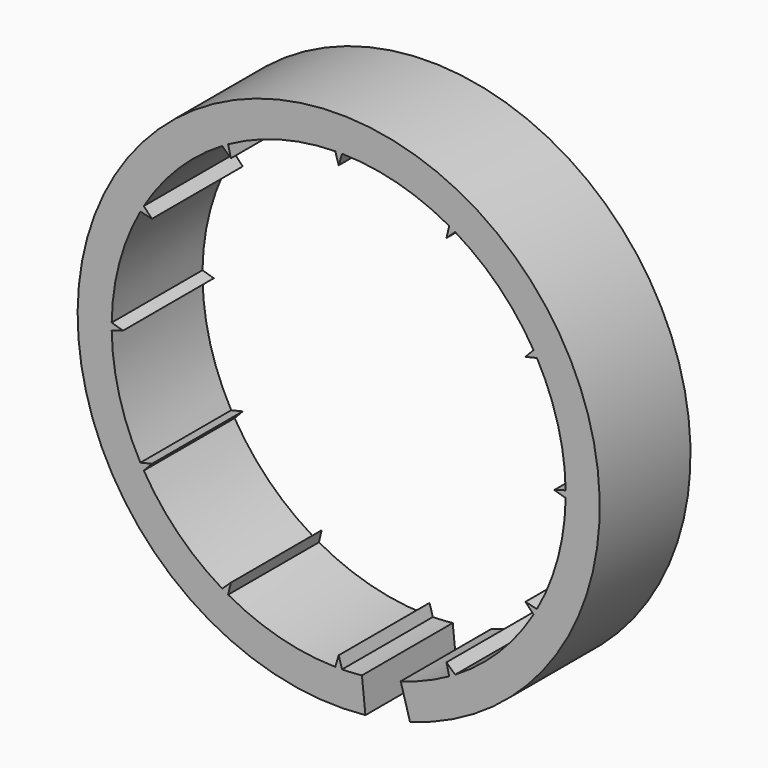
from build123d import *

# Parameters (mm, degrees)
F0_R     = 11.5
F1_DEPTH = 5
F3_DEPTH = 25


with BuildPart() as f1:
    # F0 (on Front) → F1 (new body)
    with BuildSketch(Plane.XZ):
        Circle(F0_R)
        with BuildLine():
            ThreePointArc((-4.869534, 8.73428), (-2.58819, 9.659258), (-0.15, 9.998875))
            Line((-0.15, 9.998875), (0, 9.5))
            Line((0, 9.5), (0.15, 9.998875))
            ThreePointArc((0.15, 9.998875), (2.58819, 9.659258), (4.869534, 8.73428))
            Line((4.869534, 8.73428), (4.75, 8.227241))
            Line((4.75, 8.227241), (5.129341, 8.58428))
            ThreePointArc((5.129341, 8.58428), (7.071068, 7.071068), (8.58428, 5.129341))
            Line((8.58428, 5.129341), (8.227241, 4.75))
            Line((8.227241, 4.75), (8.73428, 4.869534))
            ThreePointArc((8.73428, 4.869534), (9.659258, 2.58819), (9.998875, 0.15))
            Line((9.998875, 0.15), (9.5, 0))
            Line((9.5, 0), (9.998875, -0.15))
            ThreePointArc((9.998875, -0.15), (9.659258, -2.58819), (8.73428, -4.869534))
            Line((8.73428, -4.869534), (8.227241, -4.75))
            Line((8.227241, -4.75), (8.58428, -5.129341))
            ThreePointArc((8.58428, -5.129341), (7.071068, -7.071068), (5.129341, -8.58428))
            Line((5.129341, -8.58428), (4.75, -8.227241))
            Line((4.75, -8.227241), (4.869534, -8.73428))
            ThreePointArc((4.869534, -8.73428), (2.58819, -9.659258), (0.15, -9.998875))
            Line((0.15, -9.998875), (0, -9.5))
            Line((0, -9.5), (-0.15, -9.998875))
            ThreePointArc((-0.15, -9.998875), (-2.58819, -9.659258), (-4.869534, -8.73428))
            Line((-4.869534, -8.73428), (-4.75, -8.227241))
            Line((-4.75, -8.227241), (-5.129341, -8.58428))
            ThreePointArc((-5.129341, -8.58428), (-7.071068, -7.071068), (-8.58428, -5.129341))
            Line((-8.58428, -5.129341), (-8.227241, -4.75))
            Line((-8.227241, -4.75), (-8.73428, -4.869534))
            ThreePointArc((-8.73428, -4.869534), (-9.659258, -2.58819), (-9.998875, -0.15))
            Line((-9.998875, -0.15), (-9.5, 0))
            Line((-9.5, 0), (-9.998875, 0.15))
            ThreePointArc((-9.998875, 0.15), (-9.659258, 2.58819), (-8.73428, 4.869534))
            Line((-8.73428, 4.869534), (-8.227241, 4.75))
            Line((-8.227241, 4.75), (-8.58428, 5.129341))
            ThreePointArc((-8.58428, 5.129341), (-7.071068, 7.071068), (-5.129341, 8.58428))
            Line((-5.129341, 8.58428), (-4.75, 8.227241))
            Line((-4.75, 8.227241), (-4.869534, 8.73428))
        make_face(mode=Mode.SUBTRACT)
    extrude(amount=F1_DEPTH)

    # F2 (on face) → F3 (cut)
    with BuildSketch(Plane.XZ.offset(5)):
        with BuildLine():
            ThreePointArc((2.732529, -9.619422), (1.885707, -9.820596), (1.024599, -9.947371))
            Line((1.024599, -9.947371), (1.178289, -11.439477))
            ThreePointArc((1.178289, -11.439477), (2.168563, -11.293686), (3.142408, -11.062336))
            Line((3.142408, -11.062336), (2.732529, -9.619422))
        make_face()
    extrude(amount=-F3_DEPTH, mode=Mode.SUBTRACT)


solid = f1.part
